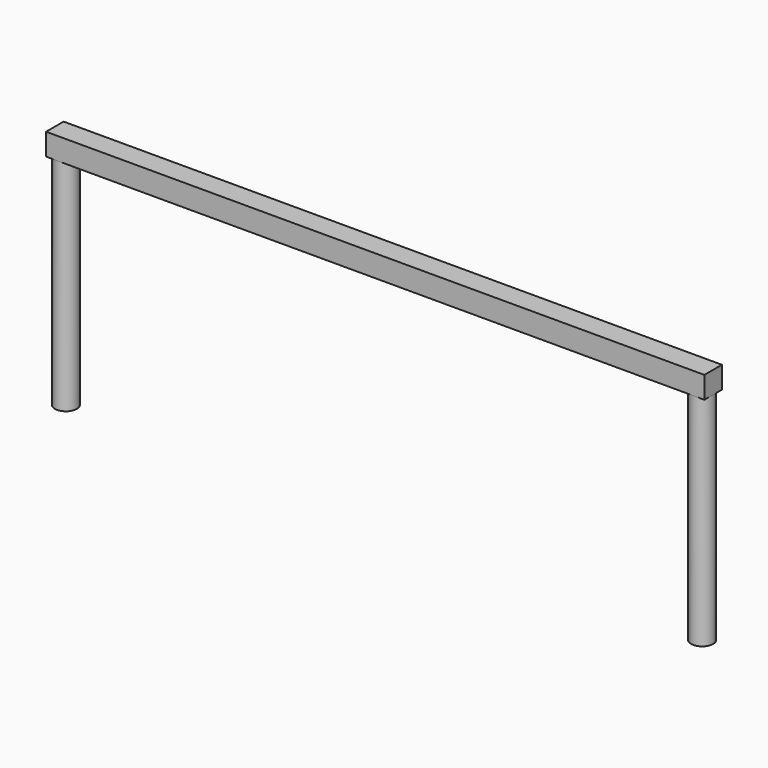
from build123d import *

# Parameters (mm, degrees)
F1_DEPTH = 1.27
F0_W     = 1.27
F0_H     = 25.4


with BuildPart() as f1:
    # F0 (on Front) → F1 (new body, symmetric)
    with BuildSketch(Plane.XZ):
        Polygon((-38.1, 27.94), (-38.1, 25.4), (-36.83, 25.4), (36.83, 25.4), (38.1, 25.4), (38.1, 27.94), align=None)
    extrude(amount=F1_DEPTH, both=True)

    # F0 (on Front) → F2 (revolve)
    with BuildSketch(Plane.XZ):
        with Locations((-37.465, 12.7)):
            Rectangle(F0_W, F0_H)
    revolve(axis=Axis((-36.83, 0, 12.7), (0, 0, 1)))

    # F0 (on Front) → F3 (revolve)
    with BuildSketch(Plane.XZ):
        with Locations((37.465, 12.7)):
            Rectangle(F0_W, F0_H)
    revolve(axis=Axis((36.83, 0, 12.7), (0, 0, 1)))


solid = f1.part
